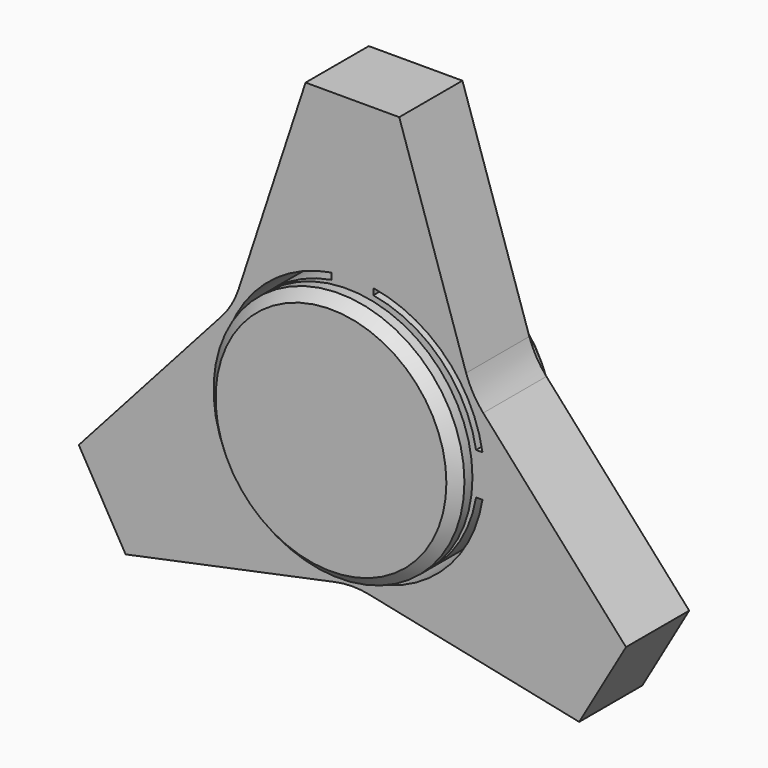
from build123d import *

# Parameters (mm, degrees)
F0_R       = 8.5
F1_DEPTH   = 6
F2_R       = 7.992
F2_R_2     = 6.976
F3_DEPTH   = 6.508
F4_R       = 9.525
F4_R_2     = 7.992
F4_R_3     = 6.976
F5_DEPTH   = 1.524
F6_R       = 6.976
F6_R_2     = 5.96
F7_DEPTH   = 7.016
F8_R       = 9.525
F8_R_2     = 6.976
F8_R_3     = 5.96
F9_DEPTH   = 1.524
F10_SIZE   = 0.762
F10_2_SIZE = 0.762
F12_DEPTH  = 8.033
F14_DEPTH  = 8.033


with BuildPart() as f1:
    # F0 (on Front) → F1 (new body)
    with BuildSketch(Plane.XZ):
        with BuildLine():
            Line((3.556, 21.9386756437), (-3.556, 21.9386756437))
            Line((-3.556, 21.9386756437), (-8.636, 6.4857160009))
            ThreePointArc((-8.636, 6.4857160009), (-9.1691393476, 5.2938050706), (-9.9347948185, 4.2361373866))
            Line((-9.9347948185, 4.2361373866), (-20.7774504328, -7.889751486))
            Line((-20.7774504328, -7.889751486), (-17.2214504328, -14.0489241577))
            Line((-17.2214504328, -14.0489241577), (-1.2987948185, -10.7218533875))
            ThreePointArc((-1.2987948185, -10.7218533875), (0, -10.5876101411), (1.2987948185, -10.7218533875))
            Line((1.2987948185, -10.7218533875), (17.2214504328, -14.0489241577))
            Line((17.2214504328, -14.0489241577), (20.7774504328, -7.889751486))
            Line((20.7774504328, -7.889751486), (9.9347948185, 4.2361373866))
            ThreePointArc((9.9347948185, 4.2361373866), (9.1691393476, 5.2938050706), (8.636, 6.4857160009))
            Line((8.636, 6.4857160009), (3.556, 21.9386756437))
        make_face()
        Circle(F0_R, mode=Mode.SUBTRACT)
    extrude(amount=F1_DEPTH)

    # F11 (on face) → F12 (cut, through all)
    with BuildSketch(Plane.XZ.offset(6)):
        Polygon((0, 29.2248509662), (5.4864, 32.3924254831), (5.4864, 38.7275745169), (0, 41.8951490338), (-5.4864, 38.7275745169), (-5.4864, 32.3924254831), align=None)
    extrude(amount=-F12_DEPTH, mode=Mode.SUBTRACT)

    # F13 (on face) → F14 (cut, through all)
    with BuildSketch(Plane.XZ.offset(6)):
        with BuildLine():
            Line((-1.5875, 9.3917766557), (-1.5875, 9.8772922774))
            ThreePointArc((-1.5875, 9.8772922774), (-7.0739330992, 7.0739330992), (-9.8772922774, 1.5875))
            Line((-9.8772922774, 1.5875), (-9.3917766557, 1.5875))
            ThreePointArc((-9.3917766557, 1.5875), (-6.7351920908, 6.7351920908), (-1.5875, 9.3917766557))
        make_face()
        with BuildLine():
            Line((9.3917766557, 1.5875), (9.8772922774, 1.5875))
            ThreePointArc((9.8772922774, 1.5875), (7.0739330992, 7.0739330992), (1.5875, 9.8772922774))
            Line((1.5875, 9.8772922774), (1.5875, 9.3917766557))
            ThreePointArc((1.5875, 9.3917766557), (6.7351920908, 6.7351920908), (9.3917766557, 1.5875))
        make_face()
        with BuildLine():
            Line((-9.3917766557, -1.5875), (-9.8772922774, -1.5875))
            ThreePointArc((-9.8772922774, -1.5875), (-7.0739330992, -7.0739330992), (-1.5875, -9.8772922774))
            Line((-1.5875, -9.8772922774), (-1.5875, -9.3917766557))
            ThreePointArc((-1.5875, -9.3917766557), (-6.7351920908, -6.7351920908), (-9.3917766557, -1.5875))
        make_face()
        with BuildLine():
            Line((1.5875, -9.3917766557), (1.5875, -9.8772922774))
            ThreePointArc((1.5875, -9.8772922774), (7.0739330992, -7.0739330992), (9.8772922774, -1.5875))
            Line((9.8772922774, -1.5875), (9.3917766557, -1.5875))
            ThreePointArc((9.3917766557, -1.5875), (6.7351920908, -6.7351920908), (1.5875, -9.3917766557))
        make_face()
    extrude(amount=-F14_DEPTH, mode=Mode.SUBTRACT)


with BuildPart() as f3:
    # F2 (on face) → F3 (new body, through all)
    with BuildSketch(Plane.XZ.offset(6)):
        Circle(F2_R)
        Circle(F2_R_2, mode=Mode.SUBTRACT)
    extrude(amount=-F3_DEPTH)

    # F4 (on face) → F5 (join)
    with BuildSketch(Plane(origin=(0, 0.508, 0), x_dir=(-1, 0, 0), z_dir=(0, 1, 0))):
        Circle(F4_R)
        Circle(F4_R_2, mode=Mode.SUBTRACT)
        Circle(F4_R_2)
        Circle(F4_R_3, mode=Mode.SUBTRACT)
        Circle(F4_R_3)
    extrude(amount=F5_DEPTH)

    # F10
    f10_edges = [f3.edges().sort_by_distance(p)[0] for p in [
        (9.525, 2.032, 0),
    ]]
    chamfer(f10_edges, length=F10_SIZE)


with BuildPart() as f7:
    # F6 (on face) → F7 (new body, through all)
    with BuildSketch(Plane.XZ.offset(-0.508)):
        Circle(F6_R)
        Circle(F6_R_2, mode=Mode.SUBTRACT)
    extrude(amount=F7_DEPTH)

    # F8 (on face) → F9 (join)
    with BuildSketch(Plane.XZ.offset(6.508)):
        Circle(F8_R)
        Circle(F8_R_2, mode=Mode.SUBTRACT)
        Circle(F8_R_2)
        Circle(F8_R_3, mode=Mode.SUBTRACT)
        Circle(F8_R_3)
    extrude(amount=F9_DEPTH)

    # F10#2
    f10_2_edges = [f7.edges().sort_by_distance(p)[0] for p in [
        (-9.525, -8.032, 0),
    ]]
    chamfer(f10_2_edges, length=F10_2_SIZE)


solid = Compound([f1.part, f3.part, f7.part])
